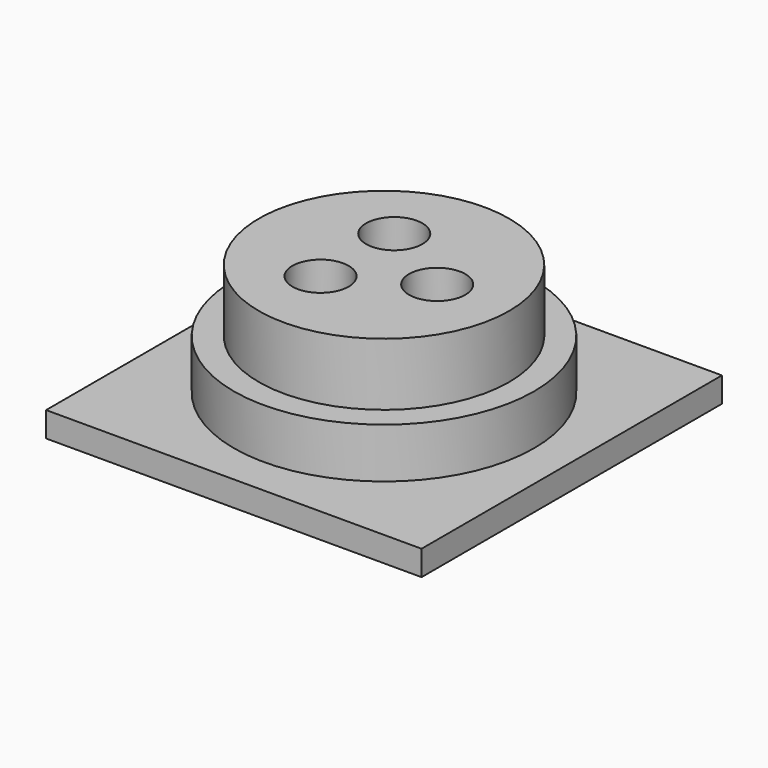
from build123d import *

# Parameters (mm, degrees)
CYLINDER157_R     = 2.25
CYLINDER157_DEPTH = 8
CYLINDER156_R     = 1
CYLINDER156_DEPTH = 18
CYLINDER147_R     = 1
CYLINDER147_DEPTH = 1
ARRAY_COUNT       = 3
CYLINDER153_R     = 10
CYLINDER153_DEPTH = 5
BOX_W             = 30
BOX_H             = 30
BOX_DEPTH         = 2
CYLINDER202_R     = 12
CYLINDER202_DEPTH = 6


with BuildPart() as sealsubtraction:
    # Cylinder157 → Cylinder157 (new body)
    with BuildSketch(Plane.XY.offset(2.5)):
        Circle(CYLINDER157_R)
    extrude(amount=CYLINDER157_DEPTH)


with BuildPart() as bottomwireoutlet:
    # Cylinder156 → Cylinder156 (new body)
    with BuildSketch(Plane.XY.offset(-8)):
        Circle(CYLINDER156_R)
    extrude(amount=CYLINDER156_DEPTH)


with BuildPart() as sealarray:
    # Cylinder147 → Cylinder147 (new body)
    with BuildSketch(Plane.XY.offset(4.5)):
        Circle(CYLINDER147_R)
    extrude(amount=CYLINDER147_DEPTH)

    # Fusion: union SealSubtraction, BottomWireOutlet
    add(sealsubtraction.part)
    add(bottomwireoutlet.part)


with BuildPart() as sealarray_1:
    # Fusion placement: moved
    add(sealarray.part.moved(Location((4.25, 0, 0))))

    # Array: SealArray ×3 about axis
    array_axis = Axis((0, 0, 0), (0, 0, 1))


with BuildPart() as sealarray_2:
    add(sealarray_1.part)
    for i in range(1, ARRAY_COUNT):
        add(sealarray_1.part.rotate(array_axis, i * 360 / ARRAY_COUNT))


with BuildPart() as body:
    # Cylinder153 → Cylinder153 (new body)
    with BuildSketch(Plane.XY):
        Circle(CYLINDER153_R)
    extrude(amount=CYLINDER153_DEPTH)


with BuildPart() as cube:
    # Box → Box (new body)
    with BuildSketch(Plane(origin=(-15, -15, -6), x_dir=(1, 0, 0), z_dir=(0, 0, 1))):
        with Locations((15, 15)):
            Rectangle(BOX_W, BOX_H)
    extrude(amount=BOX_DEPTH)


with BuildPart() as cut:
    # Cylinder202 → Cylinder202 (new body)
    with BuildSketch(Plane.XY.offset(-6)):
        Circle(CYLINDER202_R)
    extrude(amount=CYLINDER202_DEPTH)

    # Fusion012: union Body, Cube
    add(body.part)
    add(cube.part)

    # Cut: cut SealArray
    add(sealarray_2.part, mode=Mode.SUBTRACT)


solid = cut.part
